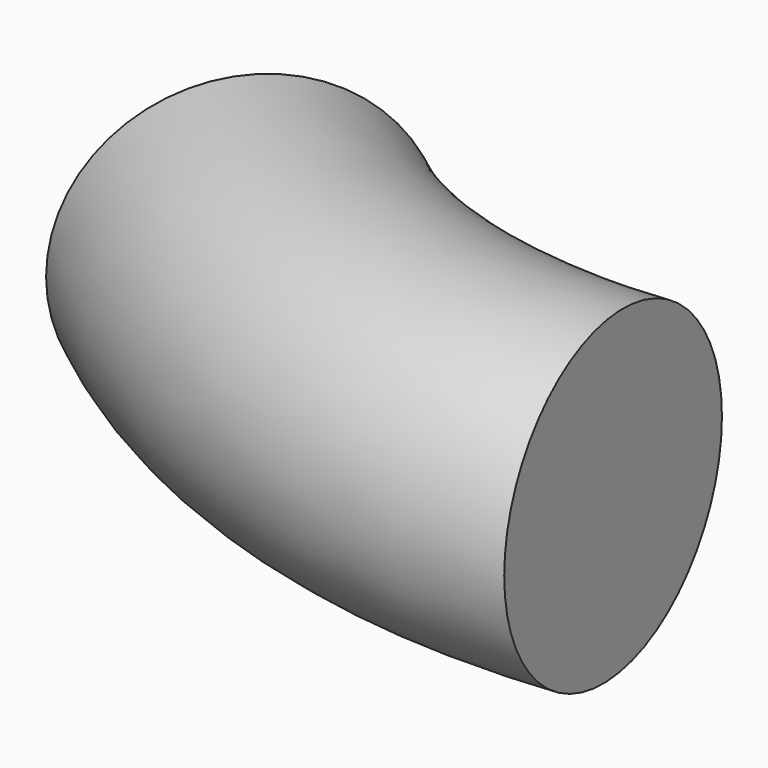
from build123d import *

# Parameters (mm, degrees)
F2_R = 25.4


with BuildPart() as f3:
    # F3: sweep along a path in F0
    with BuildLine(Plane.XY) as f3_path:
        ThreePointArc((-38.194613, 13.599713), (-2.275595, -4.943385), (38.005387, -8.329361))
    # F2 (on face) → F3 (sweep)
    with BuildSketch(Plane(origin=(36.597443, 4.134217, 0), x_dir=(-0.112251, 0.99368, 0), z_dir=(0.99368, 0.112251, 0))):
        with Locations((-12.455247, 0)):
            Circle(F2_R)
    sweep(path=f3_path.line)


solid = f3.part
